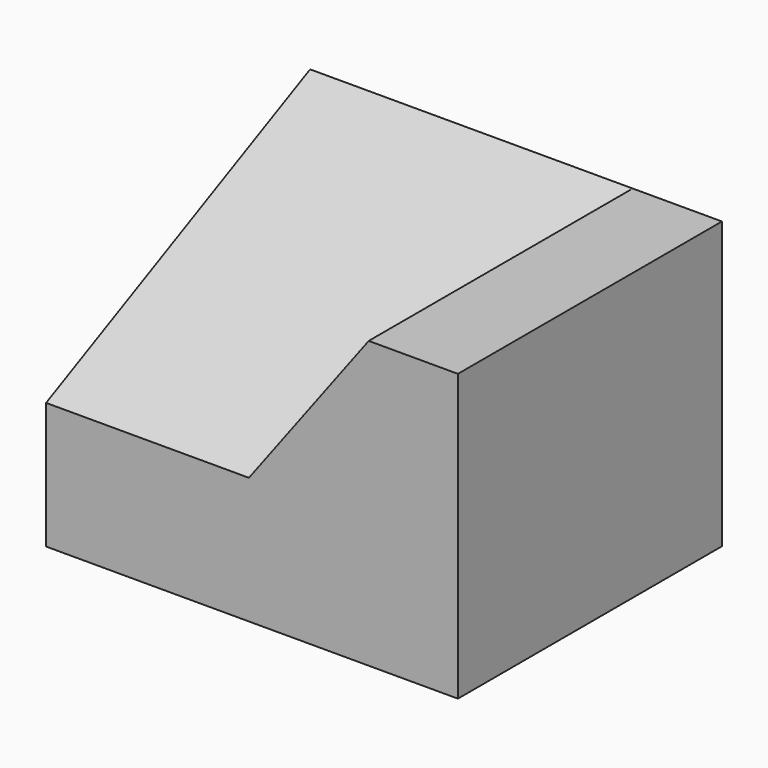
from build123d import *

# Parameters (mm, degrees)
F1_DEPTH = 49


with BuildPart() as f1:
    # F0 (on Front) → F1 (new body, symmetric)
    with BuildSketch(Plane.XZ):
        Polygon((35.564519465, 47.3588742316), (0, 0), (-60.2419376373, 0), (-60.2419376373, -37.5604853034), (62.0564557612, -37.5604853034), (62.0564557612, 47.3588742316), align=None)
    extrude(amount=F1_DEPTH, both=True)

    # F2 (on face) → F3 (join, up to the next surface of F1)
    with BuildSketch(Plane(origin=(-60.2419376373, 0, 0), x_dir=(0, -1, 0), z_dir=(-1, 0, 0))):
        Polygon((-49, 47.3588742316), (-49, 0), (49, 0), align=None)
    extrude(until=Until.NEXT, dir=(1, 0, 0))


solid = f1.part
